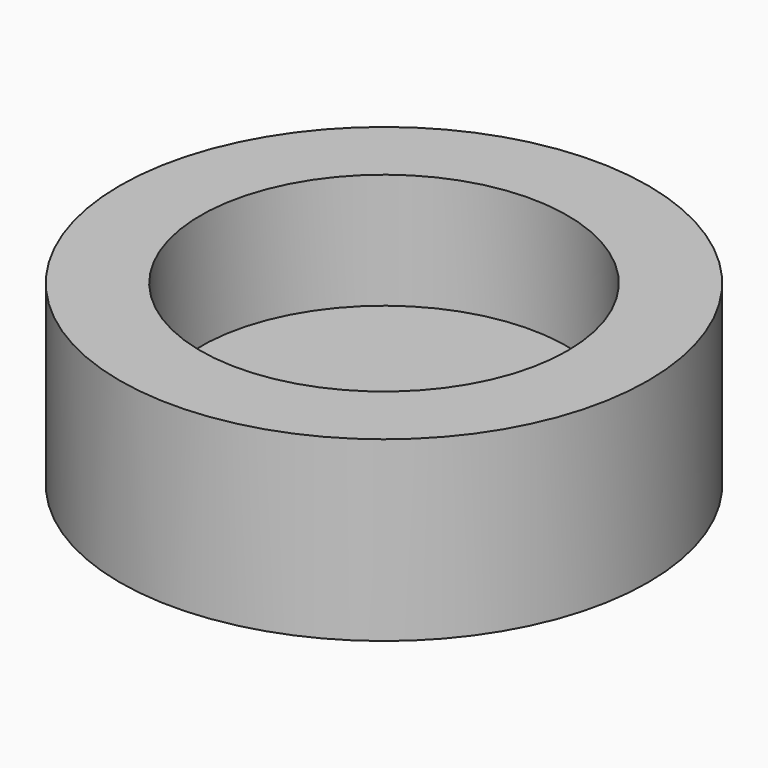
from build123d import *

# Parameters (mm, degrees)
SKETCH_R        = 11.45
PAD_DEPTH       = 7.7
SKETCH003_R     = 7.95
POCKET_DEPTH    = 5
POCKET001_DEPTH = 1.7


with BuildPart() as part:
    # Sketch → Pad (new body)
    with BuildSketch(Plane.XY):
        Circle(SKETCH_R)
    extrude(amount=PAD_DEPTH)

    # Sketch003 (on Face3 of Pad) → Pocket (cut)
    with BuildSketch(Plane.XY.offset(7.7)):
        Circle(SKETCH003_R)
    extrude(amount=-POCKET_DEPTH, mode=Mode.SUBTRACT)

    # Sketch002 → Pocket001 (cut)
    with BuildSketch(Plane(origin=(0, 0, 0), x_dir=(1, 0, 0), z_dir=(0, 0, -1))):
        Polygon((-9.7, 5.1), (-5, 5.1), (-5, 9.7), (5, 9.7), (5, 5.1), (9.7, 5.1), (9.7, -5.1), (5, -5.1), (5, -9.7), (-5, -9.7), (-5, -5.1), (-9.7, -5.1), align=None)
    extrude(amount=-POCKET001_DEPTH, mode=Mode.SUBTRACT)


solid = part.part
